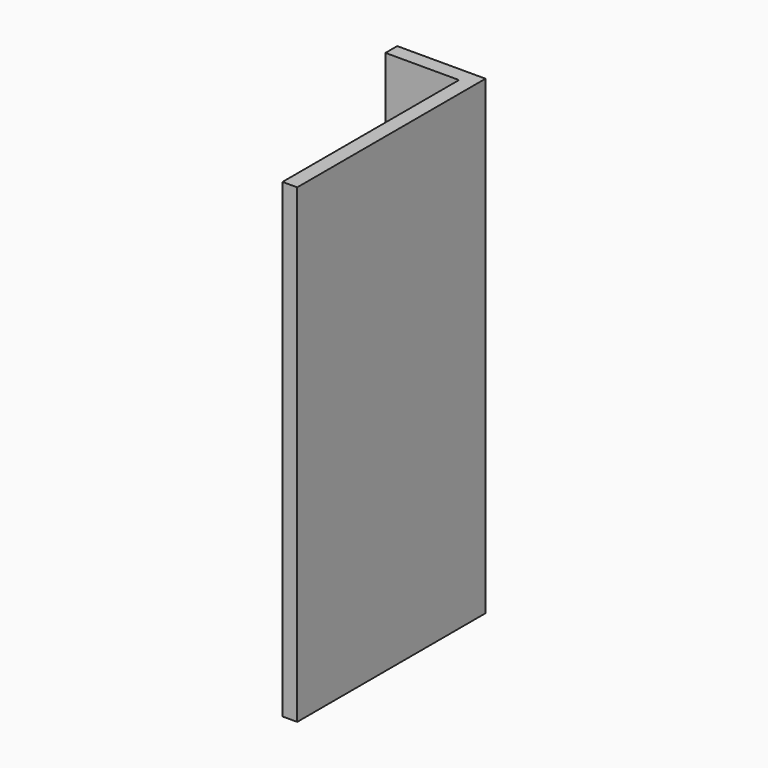
from build123d import *

# Parameters (mm, degrees)
F1_DEPTH = 101.6
F3_D     = 6.35


with BuildPart() as f1:
    # F0 (on Top) → F1 (new body)
    with BuildSketch(Plane.XY):
        Polygon((0, 0), (-19.05, 0), (-19.05, -3.175), (-3.175, -3.175), (-3.175, -50.8), (0, -50.8), align=None)
    extrude(amount=F1_DEPTH)

    # F3 (through all)
    with Locations(Plane(origin=(0, 0, 0), x_dir=(1, 0, 0), z_dir=(0, 1, 0))):
        with Locations((-10.5969142169, -29.7635085881)):
            Hole(F3_D / 2)


solid = f1.part
